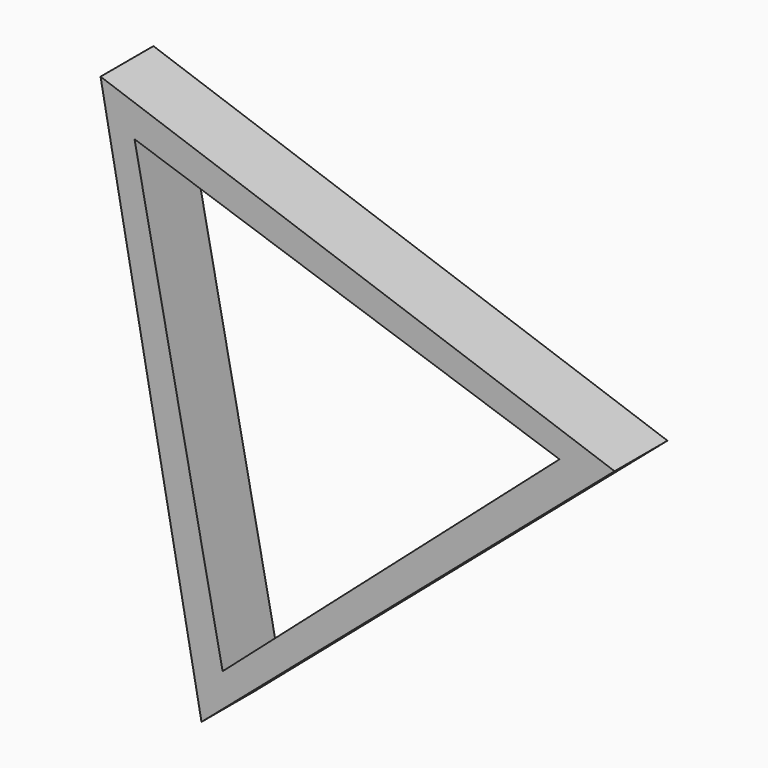
from build123d import *

# Parameters (mm, degrees)
F1_DEPTH = 25.4


with BuildPart() as f1:
    # F0 (on Front) → F1 (new body)
    with BuildSketch(Plane.XZ):
        Polygon((-39.975051, -114.025376), (118.736398, 22.393278), (-78.761347, 91.632098), align=None)
        Polygon((-65.698497, 74.72723), (97.564928, 19.532953), (-31.866431, -94.260182), align=None, mode=Mode.SUBTRACT)
    extrude(amount=F1_DEPTH)


solid = f1.part
